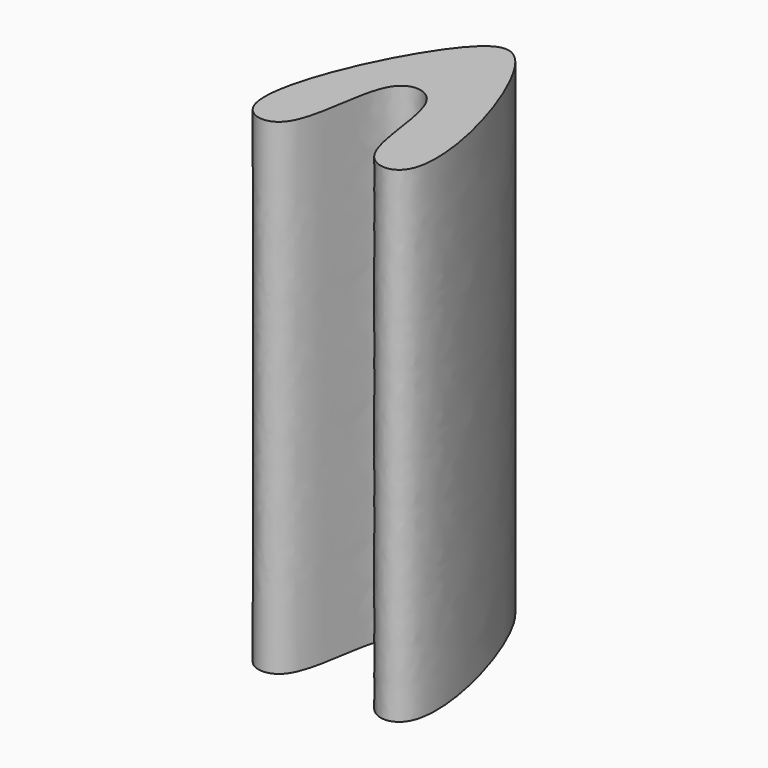
from build123d import *

# Parameters (mm, degrees)
F1_DEPTH = 254


with BuildPart() as f1:
    # F0 (on Top) → F1 (new body)
    with BuildSketch(Plane.XY):
        with BuildLine():
            add(Edge.make_bspline(
                [(-46.0489206016, -44.3220846355), (-53.6190527417, -24.0740705935), (-13.3349283287, 61.959410253), (20.7981598195, 59.1600215024), (56.2386765362, -56.6571011121), (10.2866577184, -55.5612704677), (15.7910091072, 8.6323321741), (-21.5365728665, 11.6755141378), (-16.7921419859, -57.2749613529), (-42.8243782899, -52.9468453131), (-46.0489206016, -44.3220846355)],
                knots=[0, 0, 0, 0, 0.193789953, 0.2826857454, 0.4749269404, 0.5557836432, 0.6961123515, 0.7763626468, 0.9174540297, 1, 1, 1, 1], degree=3))
        make_face()
    extrude(amount=F1_DEPTH)


solid = f1.part
